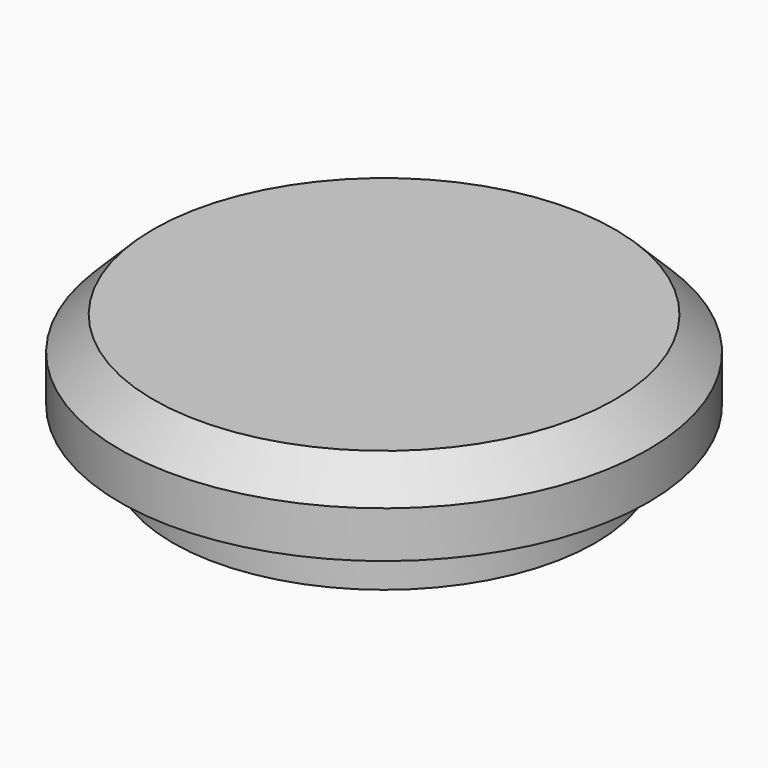
from build123d import *

# Parameters (mm, degrees)
F0_R     = 12.7
F0_R_2   = 10.16
F0_R_3   = 6.731
F1_DEPTH = 6.3754
F2_DEPTH = 2.54
F3_DEPTH = 1.27
F4_SIZE  = 1.6002


with BuildPart() as f1:
    # F0 (on Top) → F1 (new body)
    with BuildSketch(Plane.XY):
        Circle(F0_R)
        Circle(F0_R_2, mode=Mode.SUBTRACT)
        Circle(F0_R_2)
        Circle(F0_R_3, mode=Mode.SUBTRACT)
        Circle(F0_R_3)
    extrude(amount=F1_DEPTH)

    # F0 (on Top) → F2 (cut)
    with BuildSketch(Plane.XY):
        Circle(F0_R)
        Circle(F0_R_2, mode=Mode.SUBTRACT)
    extrude(amount=F2_DEPTH, mode=Mode.SUBTRACT)

    # F0 (on Top) → F3 (cut)
    with BuildSketch(Plane.XY):
        Circle(F0_R_3)
    extrude(amount=F3_DEPTH, mode=Mode.SUBTRACT)

    # F4
    f4_edges = [f1.edges().sort_by_distance(p)[0] for p in [
        (-12.7, 0, 6.3754),
    ]]
    chamfer(f4_edges, length=F4_SIZE)


solid = f1.part
